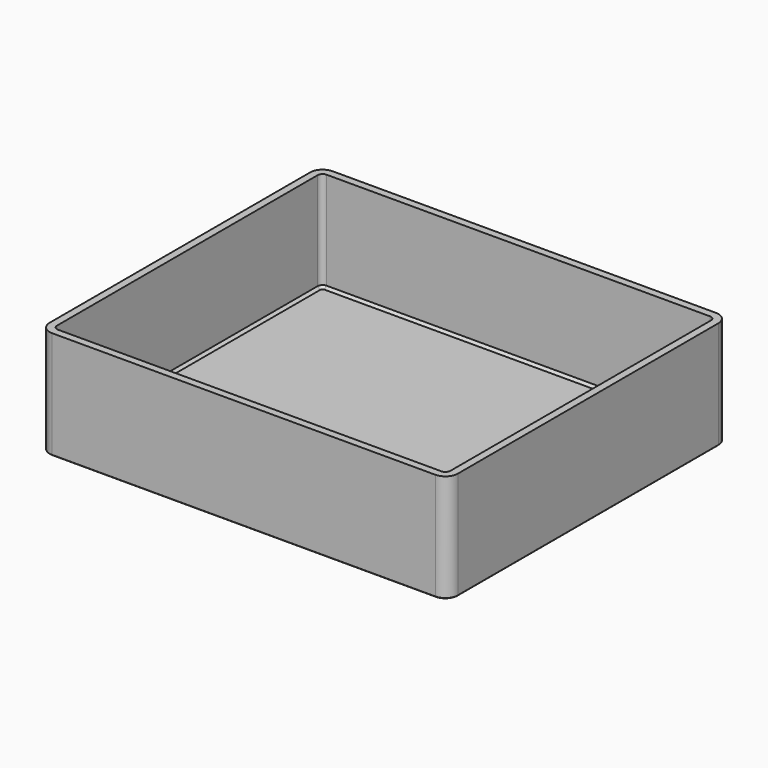
from build123d import *

# Parameters (mm, degrees)
F0_W     = 163
F0_H     = 140
F0_W_2   = 123
F0_H_2   = 100
F0_W_3   = 115
F0_H_3   = 92
F1_DEPTH = 3
F2_W     = 163
F2_H     = 140
F2_W_2   = 157
F2_H_2   = 134
F3_DEPTH = 40
F4_R     = 5
F5_R     = 2
F6_SIZE  = 0.25
F7_SIZE  = 1


with BuildPart() as f1:
    # F0 (on Top) → F1 (new body)
    with BuildSketch(Plane.XY):
        Rectangle(F0_W, F0_H)
        Rectangle(F0_W_2, F0_H_2, mode=Mode.SUBTRACT)
        Rectangle(F0_W_2, F0_H_2)
        Rectangle(F0_W_3, F0_H_3, mode=Mode.SUBTRACT)
        Rectangle(F0_W_3, F0_H_3)
    extrude(amount=F1_DEPTH)

    # F2 (on face) → F3 (join)
    with BuildSketch(Plane.XY.offset(3)):
        Rectangle(F2_W, F2_H)
        Rectangle(F2_W_2, F2_H_2, mode=Mode.SUBTRACT)
    extrude(amount=F3_DEPTH)

    # F4
    f4_edges = [f1.edges().sort_by_distance(p)[0] for p in [
        (-81.5, -70, 21.5),
        (81.5, -70, 21.5),
        (81.5, 70, 21.5),
        (-81.5, 70, 21.5),
    ]]
    fillet(f4_edges, radius=F4_R)

    # F5
    f5_edges = [f1.edges().sort_by_distance(p)[0] for p in [
        (78.5, -67, 23),
        (-78.5, -67, 23),
        (78.5, 67, 23),
        (-78.5, 67, 23),
    ]]
    fillet(f5_edges, radius=F5_R)

    # F6
    f6_edges = [f1.edges().sort_by_distance(p)[0] for p in [
        (0, -70, 0),
        (-80.035534, -68.535534, 0),
        (80.035534, -68.535534, 0),
        (-81.5, 0, 0),
        (81.5, 0, 0),
        (-80.035534, 68.535534, 0),
        (80.035534, 68.535534, 0),
        (0, 70, 0),
    ]]
    chamfer(f6_edges, length=F6_SIZE)

    # F7
    f7_edges = [f1.edges().sort_by_distance(p)[0] for p in [
        (0, -67, 3),
        (77.914214, -66.414214, 3),
        (-77.914214, -66.414214, 3),
        (78.5, 0, 3),
        (-78.5, 0, 3),
        (77.914214, 66.414214, 3),
        (-77.914214, 66.414214, 3),
        (0, 67, 3),
    ]]
    chamfer(f7_edges, length=F7_SIZE)


solid = f1.part
